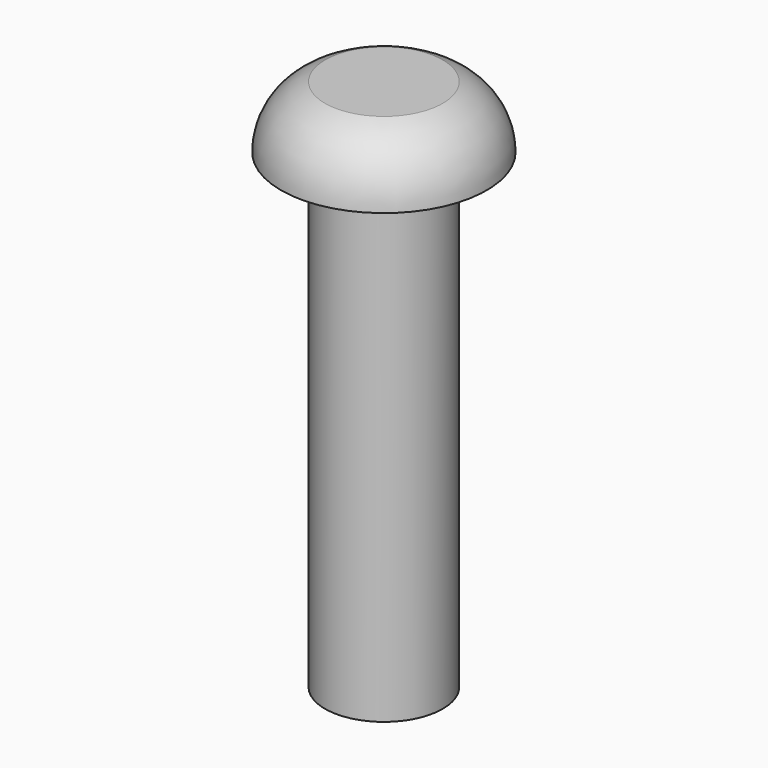
from build123d import *

# Parameters (mm, degrees)
F0_R     = 3.175
F1_DEPTH = 25.4


with BuildPart() as f1:
    # F0 (on Top) → F1 (new body)
    with BuildSketch(Plane.XY):
        Circle(F0_R)
    extrude(amount=-F1_DEPTH)

    # F2 (on Front) → F3 (revolve)
    with BuildSketch(Plane.XZ):
        with BuildLine():
            Line((-5.5499, 0), (0, 0))
            Line((0, 0), (0, 3.3528))
            Line((0, 3.3528), (-3.175, 3.3528))
            ThreePointArc((-3.175, 3.3528), (-4.896027, 2.05435), (-5.5499, 0))
        make_face()
    revolve(axis=Axis((0, 0, -12.7), (0, 0, -1)))


solid = f1.part
